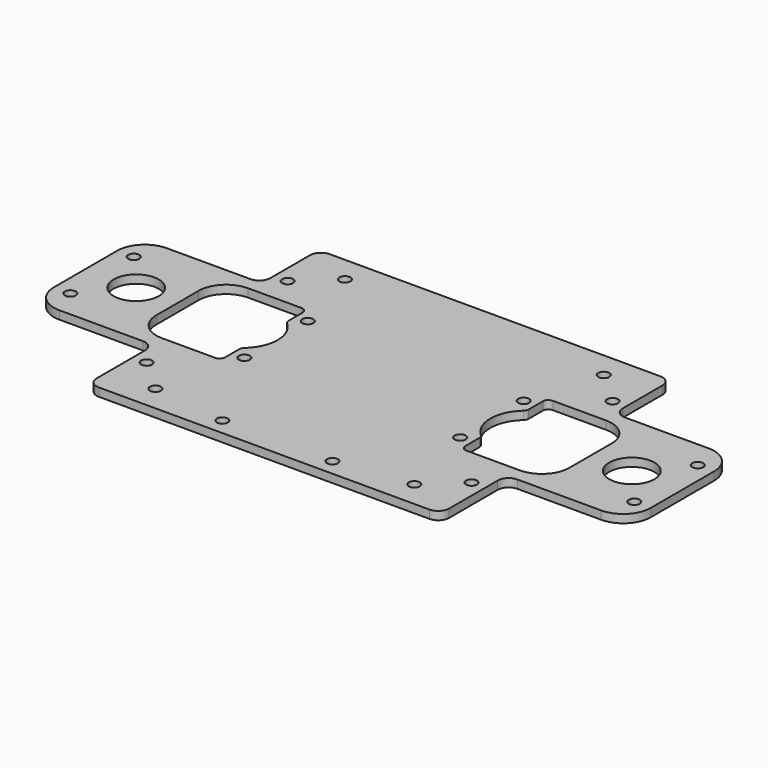
from build123d import *

# Parameters (mm, degrees)
F0_W      = 108.4
F0_H      = 24.4
F0_R      = 1
F0_R_2    = 4.1
F1_DEPTH  = 1.5
F2_W      = 108.4
F2_H      = 1.5
F3_DEPTH  = 15
F4_W      = 22.2
F4_H      = 15
F5_DEPTH  = 1.5
F7_R      = 2
F8_R      = 5
F9_W      = 32
F9_H      = 1.5
F10_DEPTH = 13
F6_R      = 1
F11_DEPTH = 1.5
F12_R     = 1
F13_DEPTH = 1.5
F14_R     = 2


with BuildPart() as f1:
    # F0 (on Top) → F1 (new body)
    with BuildSketch(Plane.XY):
        Rectangle(F0_W, F0_H)
        with Locations((-51.2, -7.2)):
            Circle(F0_R, mode=Mode.SUBTRACT)
        with Locations((-19.6, -7.2)):
            Circle(F0_R, mode=Mode.SUBTRACT)
        with Locations((19.6, -7.2)):
            Circle(F0_R, mode=Mode.SUBTRACT)
        with Locations((51.2, -7.2)):
            Circle(F0_R, mode=Mode.SUBTRACT)
        with Locations((-45, 0)):
            Circle(F0_R_2, mode=Mode.SUBTRACT)
        with BuildLine():
            ThreePointArc((-37.5, 4.8), (-36.0355339059, 8.3355339059), (-32.5, 9.8))
            Line((-32.5, 9.8), (-22.8, 9.8))
            ThreePointArc((-22.8, 9.8), (-22.0928932188, 9.5071067812), (-21.8, 8.8))
            Line((-21.8, 8.8), (-21.8, 5.5901699437))
            ThreePointArc((-21.8, 5.5901699437), (-21.7128709292, 5.1819216533), (-21.4666666667, 4.8448139512))
            ThreePointArc((-21.4666666667, 4.8448139512), (-19.3, 0), (-21.4666666667, -4.8448139512))
            ThreePointArc((-21.4666666667, -4.8448139512), (-21.7128709292, -5.1819216533), (-21.8, -5.5901699437))
            Line((-21.8, -5.5901699437), (-21.8, -8.8))
            ThreePointArc((-21.8, -8.8), (-22.0928932188, -9.5071067812), (-22.8, -9.8))
            Line((-22.8, -9.8), (-32.5, -9.8))
            ThreePointArc((-32.5, -9.8), (-36.0355339059, -8.3355339059), (-37.5, -4.8))
            Line((-37.5, -4.8), (-37.5, 4.8))
        make_face(mode=Mode.SUBTRACT)
        with Locations((-51.2, 7.2)):
            Circle(F0_R, mode=Mode.SUBTRACT)
        with Locations((-19.6, 7.2)):
            Circle(F0_R, mode=Mode.SUBTRACT)
        with BuildLine():
            Line((21.8, 5.5901699437), (21.8, 8.8))
            ThreePointArc((21.8, 8.8), (22.0928932188, 9.5071067812), (22.8, 9.8))
            Line((22.8, 9.8), (32.5, 9.8))
            ThreePointArc((32.5, 9.8), (36.0355339059, 8.3355339059), (37.5, 4.8))
            Line((37.5, 4.8), (37.5, -4.8))
            ThreePointArc((37.5, -4.8), (36.0355339059, -8.3355339059), (32.5, -9.8))
            Line((32.5, -9.8), (22.8, -9.8))
            ThreePointArc((22.8, -9.8), (22.0928932188, -9.5071067812), (21.8, -8.8))
            Line((21.8, -8.8), (21.8, -5.5901699437))
            ThreePointArc((21.8, -5.5901699437), (21.7128709292, -5.1819216533), (21.4666666667, -4.8448139512))
            ThreePointArc((21.4666666667, -4.8448139512), (19.3, 0), (21.4666666667, 4.8448139512))
            ThreePointArc((21.4666666667, 4.8448139512), (21.7128709292, 5.1819216533), (21.8, 5.5901699437))
        make_face(mode=Mode.SUBTRACT)
        with Locations((45, 0)):
            Circle(F0_R_2, mode=Mode.SUBTRACT)
        with Locations((19.6, 7.2)):
            Circle(F0_R, mode=Mode.SUBTRACT)
        with Locations((51.2, 7.2)):
            Circle(F0_R, mode=Mode.SUBTRACT)
    extrude(amount=F1_DEPTH)

    # F2 (on face) → F3 (join)
    with BuildSketch(Plane.XZ.offset(12.2)):
        with Locations((0, 0.75)):
            Rectangle(F2_W, F2_H)
    extrude(amount=F3_DEPTH)

    # F4 (on face) → F5 (cut, through all)
    with BuildSketch(Plane.XY.offset(1.5)):
        with Locations((-43.1, -19.7)):
            Rectangle(F4_W, F4_H)
        with Locations((43.1, -19.7)):
            Rectangle(F4_W, F4_H)
    extrude(amount=-F5_DEPTH, mode=Mode.SUBTRACT)

    # F7
    f7_edges = [f1.edges().sort_by_distance(p)[0] for p in [
        (-32, -12.2, 0.75),
        (32, -12.2, 0.75),
    ]]
    fillet(f7_edges, radius=F7_R)

    # F8
    f8_edges = [f1.edges().sort_by_distance(p)[0] for p in [
        (-54.2, 12.2, 0.75),
        (-54.2, -12.2, 0.75),
        (54.2, 12.2, 0.75),
        (54.2, -12.2, 0.75),
    ]]
    fillet(f8_edges, radius=F8_R)

    # F9 (on face) → F10 (join)
    with BuildSketch(Plane(origin=(0, 12.2, 0), x_dir=(-1, 0, 0), z_dir=(0, 1, 0))):
        with Locations((-16, 0.75)):
            Rectangle(F9_W, F9_H)
        with Locations((16, 0.75)):
            Rectangle(F9_W, F9_H)
    extrude(amount=F10_DEPTH)

    # F6 (on face) → F11 (cut, through all)
    with BuildSketch(Plane.XY.offset(1.5)):
        with Locations((-10, -24.2)):
            Circle(F6_R)
        with Locations((10, -24.2)):
            Circle(F6_R)
    extrude(amount=-F11_DEPTH, mode=Mode.SUBTRACT)

    # F12 (on face) → F13 (cut, through all)
    with BuildSketch(Plane.XY.offset(1.5)):
        with Locations((-23.5, 20.5)):
            Circle(F12_R)
        with Locations((23.5, 20.5)):
            Circle(F12_R)
        with Locations((-23.5, -22.5)):
            Circle(F12_R)
        with Locations((23.5, -22.5)):
            Circle(F12_R)
        with Locations((-29.5, 15)):
            Circle(F12_R)
        with Locations((-29.5, -17)):
            Circle(F12_R)
        with Locations((29.5, 15)):
            Circle(F12_R)
        with Locations((29.5, -17)):
            Circle(F12_R)
    extrude(amount=-F13_DEPTH, mode=Mode.SUBTRACT)

    # F14
    f14_edges = [f1.edges().sort_by_distance(p)[0] for p in [
        (-32, -27.2, 0.75),
        (32, -27.2, 0.75),
        (32, 25.2, 0.75),
        (32, 12.2, 0.75),
        (-32, 12.2, 0.75),
        (-32, 25.2, 0.75),
    ]]
    fillet(f14_edges, radius=F14_R)


solid = f1.part
